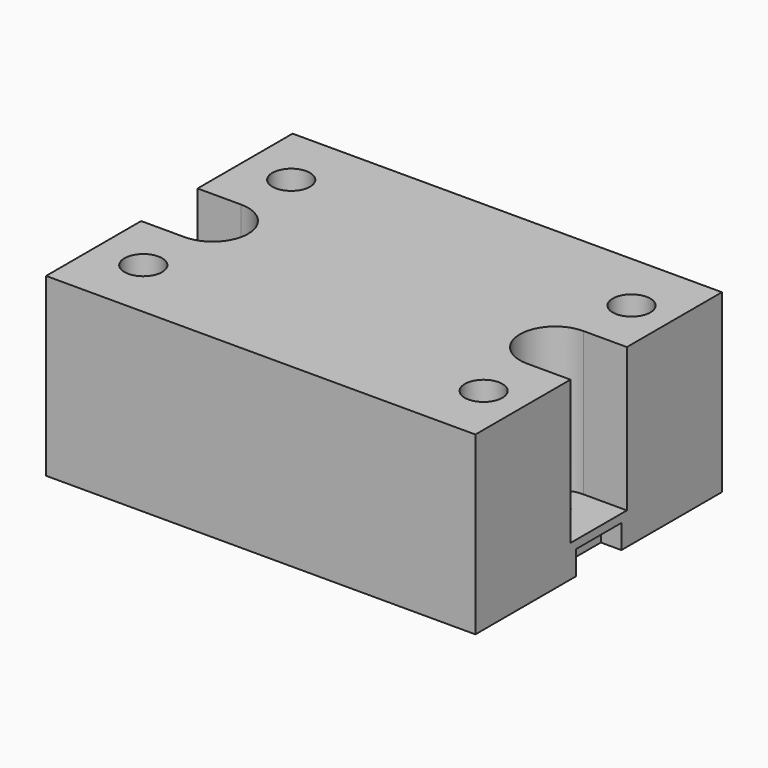
from build123d import *

# Parameters (mm, degrees)
F0_W     = 62.7
F0_H     = 45
F1_DEPTH = 25.7
F3_DEPTH = 3.5
F5_DEPTH = 21
F6_R     = 2.25
F7_DEPTH = 4.7
F9_D     = 5.5
F9_DEPTH = 4
F9_TIP   = 1.6523667023


with BuildPart() as f1:
    # F0 (on Top) → F1 (new body)
    with BuildSketch(Plane.XY):
        with Locations((31.35, 22.5)):
            Rectangle(F0_W, F0_H)
    extrude(amount=F1_DEPTH)

    # F2 (on face) → F3 (cut)
    with BuildSketch(Plane(origin=(0, 0, 0), x_dir=(1, 0, 0), z_dir=(0, 0, -1))):
        Polygon((0, -18.35), (0, -22.5), (0, -26.65), (3, -26.65), (3, -22.5), (3, -18.35), align=None)
        Polygon((62.7, -22.5), (62.7, -18.35), (59.7, -18.35), (59.7, -22.5), (59.7, -26.65), (62.7, -26.65), align=None)
    extrude(amount=-F3_DEPTH, mode=Mode.SUBTRACT)

    # F4 (on face) → F5 (cut)
    with BuildSketch(Plane.XY.offset(25.7)):
        with BuildLine():
            Line((0, 27.65), (0, 22.5))
            Line((0, 22.5), (0, 17.35))
            Line((0, 17.35), (6.35, 17.35))
            ThreePointArc((6.35, 17.35), (11.5, 22.5), (6.35, 27.65))
            Line((6.35, 27.65), (0, 27.65))
        make_face()
        with BuildLine():
            ThreePointArc((56.35, 27.65), (51.2, 22.5), (56.35, 17.35))
            Line((56.35, 17.35), (62.7, 17.35))
            Line((62.7, 17.35), (62.7, 22.5))
            Line((62.7, 22.5), (62.7, 27.65))
            Line((62.7, 27.65), (56.35, 27.65))
        make_face()
    extrude(amount=-F5_DEPTH, mode=Mode.SUBTRACT)

    # F6 (on face) → F7 (cut, through all)
    with BuildSketch(Plane(origin=(0, 0, 0), x_dir=(1, 0, 0), z_dir=(0, 0, -1))):
        with Locations((55.75, -22.5)):
            Circle(F6_R)
        with BuildLine():
            Line((8.4999779246, -20.2500000001), (6.0104839369, -20.2500244252))
            ThreePointArc((6.0104839369, -20.2500244252), (3.750330021, -22.5385355083), (6.087536662, -24.7482965402))
            Line((6.087536662, -24.7482965402), (8.4984107338, -24.7499994387))
            ThreePointArc((8.4984107338, -24.7499994387), (10.7499998636, -22.5007835955), (8.4999779246, -20.2500000001))
        make_face()
    extrude(amount=-F7_DEPTH, mode=Mode.SUBTRACT)

    # F9
    with Locations(Plane.XY.offset(25.7)):
        with Locations((7, 36), (7, 9), (56.7, 9), (56.7, 36)):
            Hole(F9_D / 2, depth=F9_DEPTH)
            with Locations((0, 0, -(F9_DEPTH + F9_TIP / 2))):  # 118° drill point
                Cone(0, F9_D / 2, F9_TIP, mode=Mode.SUBTRACT)


solid = f1.part
